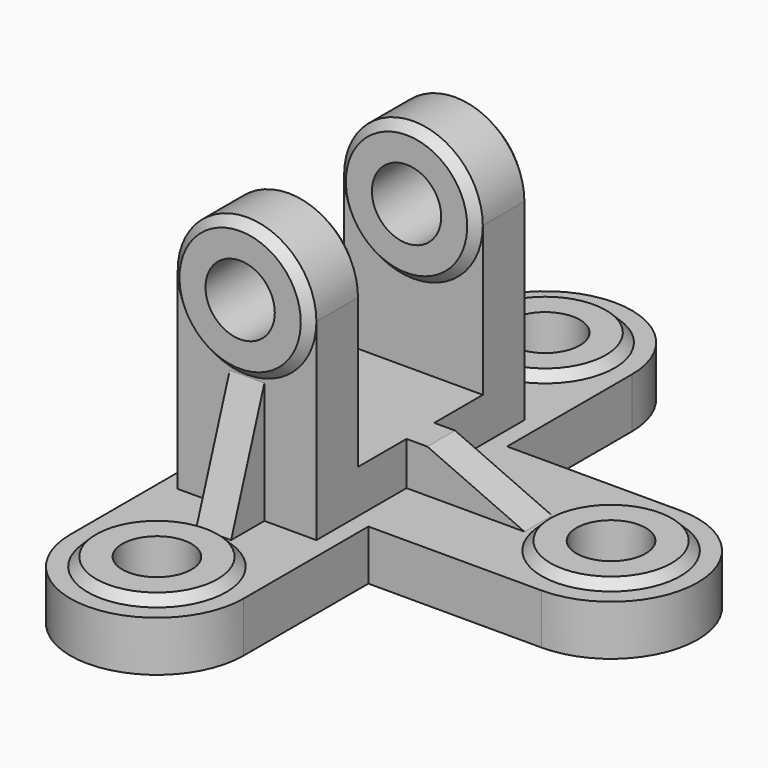
from build123d import *

# Parameters (mm, degrees)
PAD001_DEPTH    = 20
PAD002_DEPTH    = 5
PAD003_DEPTH    = 5
PAD_DEPTH       = 14.5
SKETCH009_R     = 10
POCKET_DEPTH    = 135.000977
SKETCH010_R     = 10
POCKET001_DEPTH = 17.001


with BuildPart() as revolution002:
    # Sketch006 → Revolution002 (revolve)
    with BuildSketch(Plane.YZ):
        Polygon((-70, 14.5), (-90, 14.5), (-87.5, 17), (-70, 17), align=None)
    revolve(axis=Axis((0, -70, 14.5), (0, 0, -1)))


with BuildPart() as revolution003:
    # Sketch007 → Revolution003 (revolve)
    with BuildSketch(Plane.YZ):
        Polygon((70, 14.5), (50, 14.5), (52.5, 17), (70, 17), align=None)
    revolve(axis=Axis((0, 70, 14.5), (0, 0, -1)))


with BuildPart() as revolution004:
    # Sketch008 → Revolution004 (revolve)
    with BuildSketch(Plane.XZ):
        Polygon((75, 14.5), (55, 14.5), (57.5, 17), (75, 17), align=None)
    revolve(axis=Axis((75, 0, 14.5), (0, 0, -1)))


with BuildPart() as pad001:
    # Sketch001 → Pad001 (new body, symmetric)
    with BuildSketch(Plane.YZ):
        Polygon((-37.5, 0), (-37.5, 70), (-22.5, 70), (-22.5, 27), (22.5, 27), (22.5, 70), (37.5, 70), (37.5, 0), align=None)
    extrude(amount=PAD001_DEPTH, both=True)


with BuildPart() as pad002:
    # Sketch002 → Pad002 (new body, symmetric)
    with BuildSketch(Plane.YZ):
        Polygon((-49.5, 14.5), (-37.5, 14.5), (-37.5, 49.5), align=None)
        Polygon((37.5, 49.5), (37.5, 14.5), (49.5, 14.5), align=None)
    extrude(amount=PAD002_DEPTH, both=True)


with BuildPart() as pad003:
    # Sketch003 → Pad003 (new body, symmetric)
    with BuildSketch(Plane.XZ):
        Polygon((20, 27), (20, 14.5), (54, 14.5), (26, 27), align=None)
    extrude(amount=PAD003_DEPTH, both=True)


with BuildPart() as revolution:
    # Sketch004 → Revolution (revolve)
    with BuildSketch(Plane.YZ):
        Polygon((-40, 87.5), (-37.5, 90), (-22.5, 90), (-20, 87.5), (-20, 70), (-40, 70), align=None)
    revolve(axis=Axis((0, -20, 70), (0, 1, 0)))


with BuildPart() as revolution001:
    # Sketch005 → Revolution001 (revolve)
    with BuildSketch(Plane.YZ):
        Polygon((20, 87.5), (22.5, 90), (37.5, 90), (40, 87.5), (40, 70), (20, 70), align=None)
    revolve(axis=Axis((0, 20, 70), (0, -1, 0)))


with BuildPart() as pocket001:
    # Sketch → Pad (new body)
    with BuildSketch(Plane.XY):
        with BuildLine():
            Line((-25, 69.999978), (-25, -70.000022))
            ThreePointArc((-25, -70.000022), (2e-05, -95.000023), (25, -69.999981))
            Line((25, -69.999981), (25, -25))
            Line((25, -25), (74.999999, -25))
            ThreePointArc((74.999999, -25), (100, 0), (75, 25))
            Line((25, 25), (75, 25))
            Line((25, 69.999981), (25, 25))
            ThreePointArc((25, 69.999981), (-2e-06, 94.999977), (-25, 69.999978))
        make_face()
    extrude(amount=PAD_DEPTH)

    # Fusion: union Revolution002, Revolution003, Revolution004, Pad001, Pad002, Pad003, Revolution, Revolution001
    add(revolution002.part)
    add(revolution003.part)
    add(revolution004.part)
    add(pad001.part)
    add(pad002.part)
    add(pad003.part)
    add(revolution.part)
    add(revolution001.part)

    # Sketch009 (on Face42 of Fusion) → Pocket (cut, through all)
    with BuildSketch(Plane.XZ.offset(40)):
        with Locations((0, 70)):
            Circle(SKETCH009_R)
    extrude(amount=-POCKET_DEPTH, mode=Mode.SUBTRACT)

    # Sketch010 (on Face42 of Pocket) → Pocket001 (cut, through all)
    with BuildSketch(Plane.XY.offset(17)):
        with Locations((0, -70)):
            Circle(SKETCH010_R)
        with Locations((75, 0)):
            Circle(SKETCH010_R)
        with Locations((0, 70)):
            Circle(SKETCH010_R)
    extrude(amount=-POCKET001_DEPTH, mode=Mode.SUBTRACT)


solid = pocket001.part
